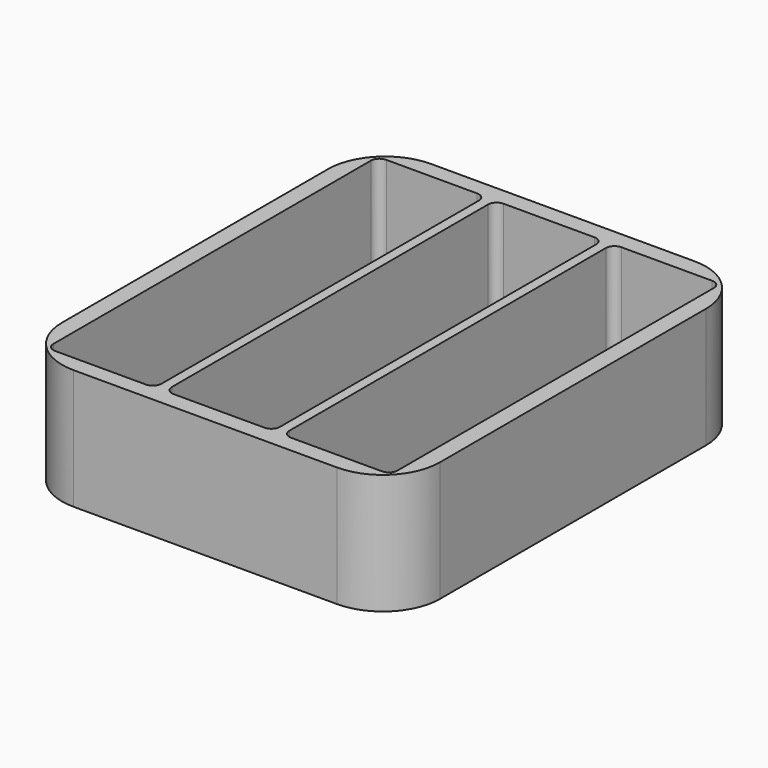
from build123d import *

# Parameters (mm, degrees)
F0_W     = 279.4
F0_H     = 330.2
F1_DEPTH = 88.9
F2_R     = 42.251924
F4_DEPTH = 75.39211


with BuildPart() as f1:
    # F0 (on Top) → F1 (new body)
    with BuildSketch(Plane.XY):
        with Locations((139.7, -165.1)):
            Rectangle(F0_W, F0_H)
    extrude(amount=F1_DEPTH)

    # F2
    f2_edges = [f1.edges().sort_by_distance(p)[0] for p in [
        (0, -330.2, 44.45),
        (279.4, -330.2, 44.45),
        (279.4, 0, 44.45),
        (0, 0, 44.45),
    ]]
    fillet(f2_edges, radius=F2_R)

    # F3 (on face) → F4 (cut)
    with BuildSketch(Plane.XY.offset(88.9)):
        with BuildLine():
            ThreePointArc((99.771842, -311.15), (101.631714, -315.640128), (106.121842, -317.5))
            Line((106.121842, -317.5), (173.278158, -317.5))
            ThreePointArc((173.278158, -317.5), (177.768286, -315.640128), (179.628158, -311.15))
            Line((179.628158, -311.15), (179.628158, -19.05))
            ThreePointArc((179.628158, -19.05), (177.768286, -14.559872), (173.278158, -12.7))
            Line((173.278158, -12.7), (106.121842, -12.7))
            ThreePointArc((106.121842, -12.7), (101.631714, -14.559872), (99.771842, -19.05))
            Line((99.771842, -19.05), (99.771842, -311.15))
        make_face()
        with BuildLine():
            Line((260.35, -12.7), (193.193685, -12.7))
            ThreePointArc((193.193685, -12.7), (188.703557, -14.559872), (186.843685, -19.05))
            Line((186.843685, -19.05), (186.843685, -311.392798))
            ThreePointArc((186.843685, -311.392798), (188.703557, -315.882926), (193.193685, -317.742798))
            Line((193.193685, -317.742798), (260.35, -317.742798))
            ThreePointArc((260.35, -317.742798), (264.840128, -315.882926), (266.7, -311.392798))
            Line((266.7, -311.392798), (266.7, -19.05))
            ThreePointArc((266.7, -19.05), (264.840128, -14.559872), (260.35, -12.7))
        make_face()
        with BuildLine():
            Line((86.206315, -12.170881), (19.05, -12.170881))
            ThreePointArc((19.05, -12.170881), (14.559872, -14.030753), (12.7, -18.520881))
            Line((12.7, -18.520881), (12.7, -311.769943))
            ThreePointArc((12.7, -311.769943), (14.559872, -316.260071), (19.05, -318.119943))
            Line((19.05, -318.119943), (86.206315, -318.119943))
            ThreePointArc((86.206315, -318.119943), (90.696443, -316.260071), (92.556315, -311.769943))
            Line((92.556315, -311.769943), (92.556315, -18.520881))
            ThreePointArc((92.556315, -18.520881), (90.696443, -14.030753), (86.206315, -12.170881))
        make_face()
    extrude(amount=-F4_DEPTH, mode=Mode.SUBTRACT)


solid = f1.part
